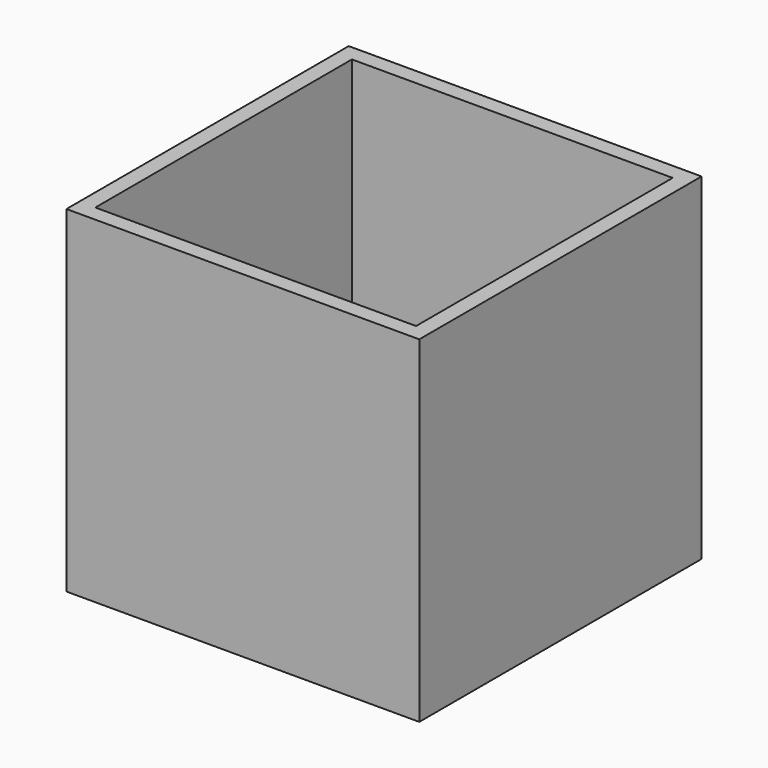
from build123d import *

# Parameters (mm, degrees)
F0_W     = 100
F0_H     = 100
F1_DEPTH = 100
F2_T     = 5


with BuildPart() as f1:
    # F0 (on Top) → F1 (new body)
    with BuildSketch(Plane.XY):
        Rectangle(F0_W, F0_H)
    extrude(amount=F1_DEPTH)

    # F2
    f2_openings = [f1.faces().sort_by_distance(p)[0] for p in [
        (0, 0, 100),
    ]]
    offset(amount=F2_T, openings=f2_openings, kind=Kind.INTERSECTION)


solid = f1.part
